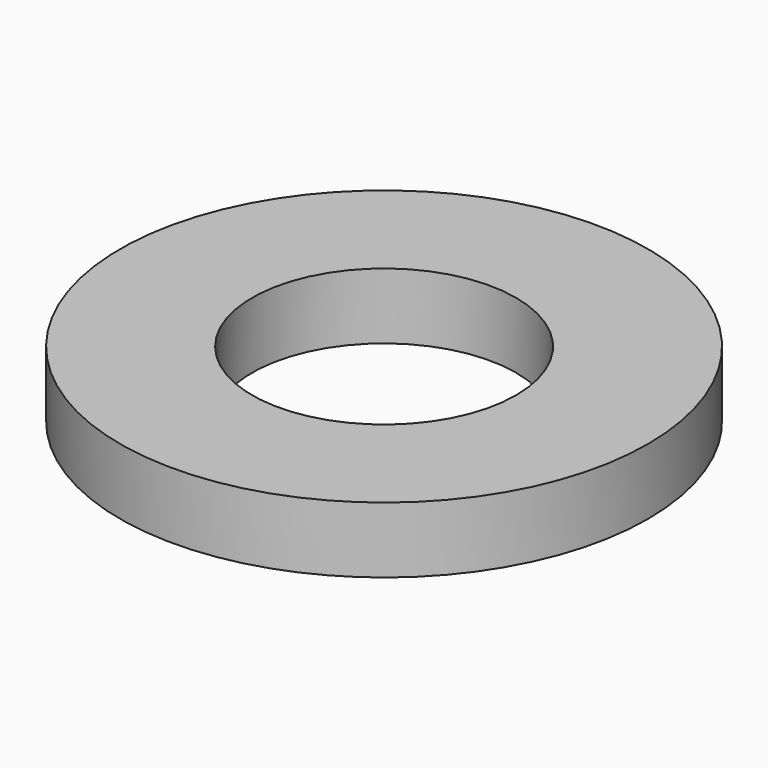
from build123d import *

# Parameters (mm, degrees)
CYLINDER013_R     = 1.5
CYLINDER013_DEPTH = 0.75
CYLINDER011_R     = 3
CYLINDER011_DEPTH = 0.75


with BuildPart() as cylinder013:
    # Cylinder013 → Cylinder013 (new body)
    with BuildSketch(Plane(origin=(16.18, 23.33, 17.7), x_dir=(1, 0, 0), z_dir=(0, 0, 1))):
        Circle(CYLINDER013_R)
    extrude(amount=CYLINDER013_DEPTH)


with BuildPart() as cut006003004003:
    # Cylinder011 → Cylinder011 (new body)
    with BuildSketch(Plane(origin=(16.18, 23.33, 17.7), x_dir=(1, 0, 0), z_dir=(0, 0, 1))):
        Circle(CYLINDER011_R)
    extrude(amount=CYLINDER011_DEPTH)

    # Cut006003004003: cut Cylinder013
    add(cylinder013.part, mode=Mode.SUBTRACT)


solid = cut006003004003.part
